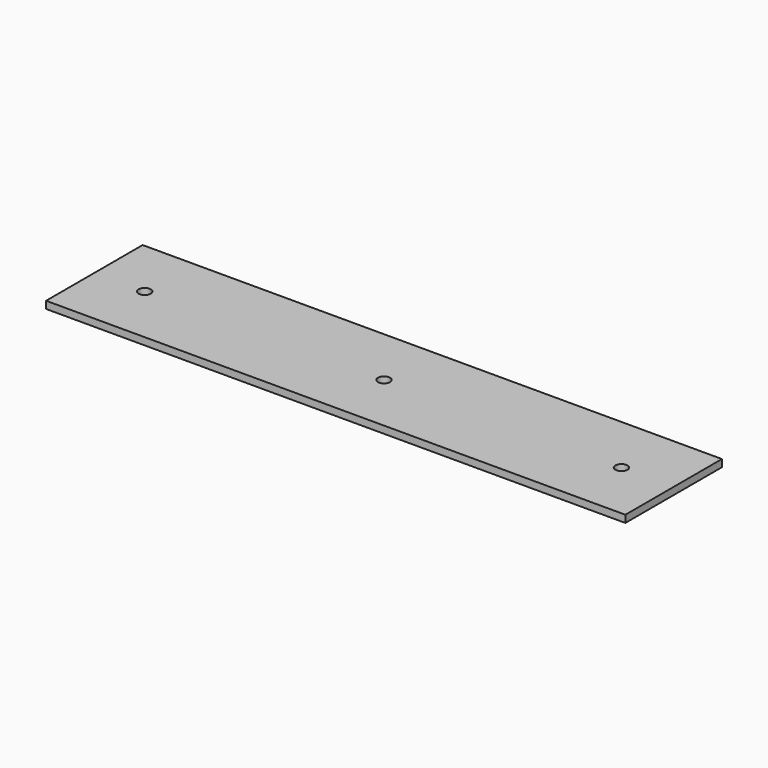
from build123d import *

# Parameters (mm, degrees)
F0_W     = 240
F0_H     = 50
F1_DEPTH = 3
F4_D     = 5
F5_D     = 5
F7_D     = 5


with BuildPart() as f1:
    # F0 (on Top) → F1 (new body)
    with BuildSketch(Plane.XY):
        Rectangle(F0_W, F0_H)
    extrude(amount=F1_DEPTH)

    # F4 (through all)
    with Locations(Plane.XY.offset(3)):
        with Locations((-99.138439, 0)):
            Hole(F4_D / 2)

    # F5 (through all)
    with Locations(Plane.XY.offset(3)):
        with Locations((0, 0)):
            Hole(F5_D / 2)

    # F7 (through all)
    with Locations(Plane.XY.offset(3)):
        with Locations((98.367669, 0)):
            Hole(F7_D / 2)


solid = f1.part
